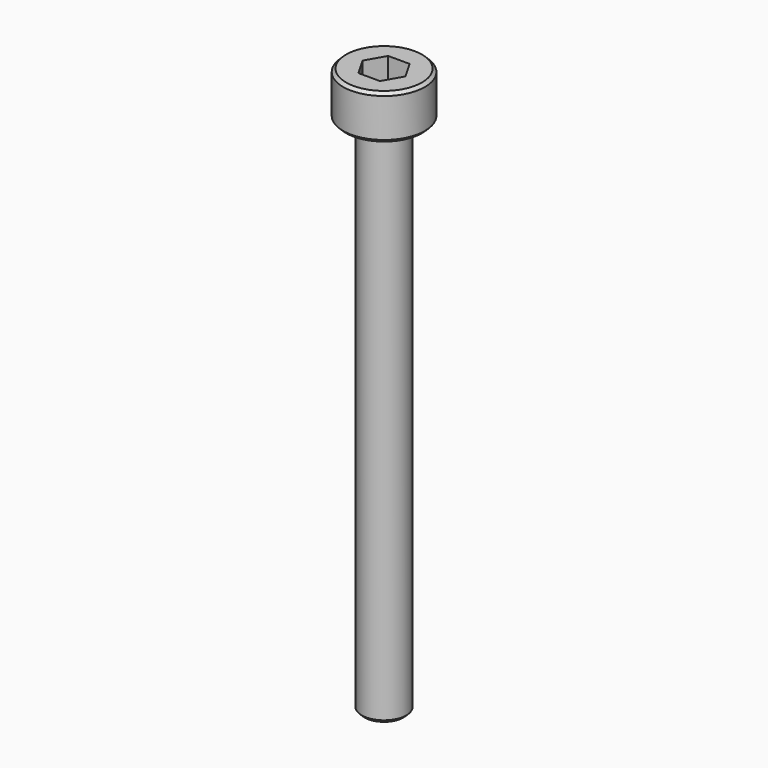
from build123d import *

# Parameters (mm, degrees)
SKETCH_R     = 2.75
PAD_DEPTH    = 3
SKETCH001_R  = 1.5
PAD001_DEPTH = 35
POCKET_DEPTH = 4
CHAMFER_SIZE = 0.2


with BuildPart() as part:
    # Sketch → Pad (new body)
    with BuildSketch(Plane.XY):
        Circle(SKETCH_R)
    extrude(amount=PAD_DEPTH)

    # Sketch001 (on Face2 of Pad) → Pad001 (join)
    with BuildSketch(Plane(origin=(0, 0, 0), x_dir=(1, 0, 0), z_dir=(0, 0, -1))):
        Circle(SKETCH001_R)
    extrude(amount=PAD001_DEPTH)

    # Sketch002 (on DatumPlane) → Pocket (cut)
    with BuildSketch(Plane.XY.offset(3)):
        Polygon((0.721688, -1.25), (1.443376, 0), (0.721688, 1.25), (-0.721688, 1.25), (-1.443376, 0), (-0.721688, -1.25), align=None)
    extrude(amount=-POCKET_DEPTH, mode=Mode.SUBTRACT)

    # Chamfer
    chamfer_edges = [part.edges().sort_by_distance(p)[0] for p in [
        (-1.5, 0, -35),
        (-2.75, 0, 0),
        (-2.75, 0, 3),
    ]]
    chamfer(chamfer_edges, length=CHAMFER_SIZE)


solid = part.part
